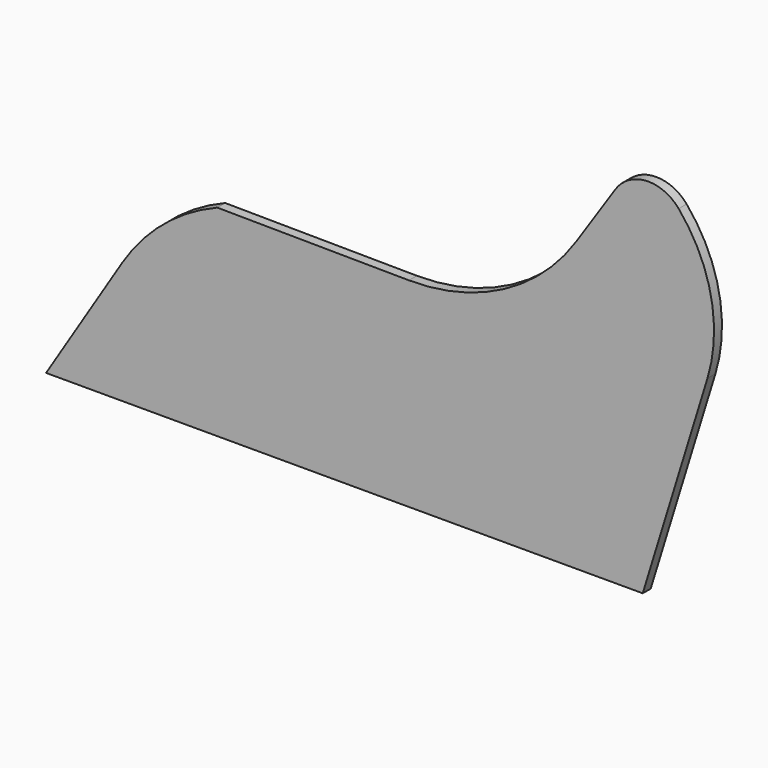
from build123d import *

# Parameters (mm, degrees)
F1_DEPTH = 25


with BuildPart() as f1:
    # F0 (on Front) → F1 (new body)
    with BuildSketch(Plane.XZ):
        with BuildLine():
            Line((-233.860472, 536.864876), (-425.602344, 230.292518))
            Line((-425.602344, 230.292518), (1074.397656, 230.292518))
            Line((1074.397656, 230.292518), (1237.189318, 759.057527))
            ThreePointArc((1237.189318, 759.057527), (1246.08021, 944.310646), (1164.832072, 1111.033487))
            ThreePointArc((1164.832072, 1111.033487), (1082.824297, 1146.126042), (1005.425358, 1101.784565))
            Line((1005.425358, 1101.784565), (907.111696, 954.393177))
            ThreePointArc((907.111696, 954.393177), (725.072507, 789.93826), (486.721307, 731.865963))
            Line((486.721307, 731.865963), (4.784319, 736.139896))
            ThreePointArc((4.784319, 736.139896), (-130.420532, 655.522658), (-233.860472, 536.864876))
        make_face()
    extrude(amount=F1_DEPTH)


solid = f1.part
